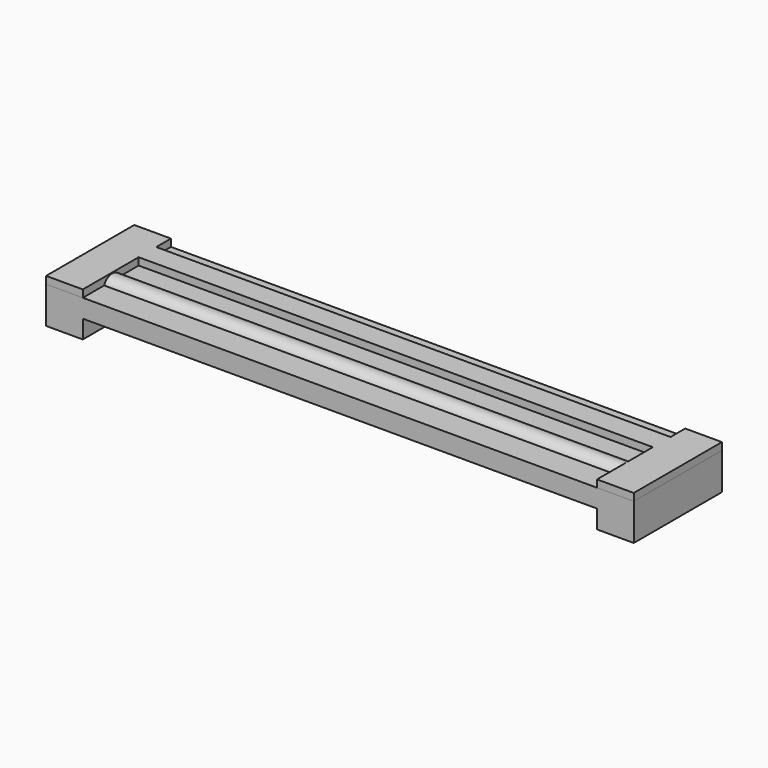
from build123d import *

# Parameters (mm, degrees)
F0_W      = 5
F0_H      = 15
F1_DEPTH  = 3
F2_W      = 72.5
F2_H      = 3
F2_W_2    = 2.5
F3_DEPTH  = 3
F4_R      = 1.5
F5_DEPTH  = 75
F6_DEPTH  = 3
F7_DEPTH  = 3
F8_DEPTH  = 5
F9_W      = 15
F9_H      = 2.5
F10_DEPTH = 70


with BuildPart() as f1:
    # F0 (on Top) → F1 (new body)
    with BuildSketch(Plane.XY):
        with Locations((-37.5, 7.5)):
            Rectangle(F0_W, F0_H)
    extrude(amount=F1_DEPTH)

    # F6 (add, through all): a face of the model
    f6_faces = [f1.faces().sort_by_distance(p)[0] for p in [
        (-37.5, 7.5, 3),
    ]]


with BuildPart() as f1b:
    # F0 (on Top) → F1, piece 2 (new body)
    with BuildSketch(Plane.XY):
        with Locations((37.5, 7.5)):
            Rectangle(F0_W, F0_H)
    extrude(amount=F1_DEPTH)


with BuildPart() as f3:
    # F2 (on face) → F3 (new body)
    with BuildSketch(Plane.XY.offset(3)):
        with Locations((-1.25, 11)):
            Rectangle(F2_W, F2_H)
        with Locations((36.25, 11)):
            Rectangle(F2_W_2, F2_H)
    extrude(amount=F3_DEPTH)


with BuildPart() as f5:
    # F4 (on face) → F5 (new body)
    with BuildSketch(Plane(origin=(-37.5, 0, 0), x_dir=(0, -1, 0), z_dir=(-1, 0, 0))):
        with Locations((-5, 4.4)):
            Circle(F4_R)
    extrude(amount=-F5_DEPTH)


with BuildPart() as f1_1:
    add(f1.part)

    add(f3.part)  # F6 merges F3

    add(f5.part)  # F6 merges F5
    extrude(f6_faces, amount=F6_DEPTH)

    # F7 (add, through all): a face of the model
    f7_faces = [f1b.part.faces().sort_by_distance(p)[0] for p in [
        (37.5, 7.5, 3),
    ]]

    add(f1b.part)  # F7 merges F1b
    extrude(f7_faces, amount=F7_DEPTH)


with BuildPart() as f8:
    # F0 (on Top) → F8 (new body)
    with BuildSketch(Plane.XY):
        with Locations((-37.5, 7.5)):
            Rectangle(F0_W, F0_H)
    extrude(amount=F8_DEPTH)



with BuildPart() as f8b:
    # F0 (on Top) → F8, piece 2 (new body)
    with BuildSketch(Plane.XY):
        with Locations((37.5, 7.5)):
            Rectangle(F0_W, F0_H)
    extrude(amount=F8_DEPTH)


with BuildPart() as f8_1:
    add(f8.part)

    add(f8b.part)  # F10 merges F8b
    # F9 (on face) → F10 (join, through all)
    with BuildSketch(Plane.YZ.offset(-35)):
        with Locations((7.5, 3.75)):
            Rectangle(F9_W, F9_H)
    extrude(amount=F10_DEPTH)


solid = Compound([f1_1.part, f8_1.part])
